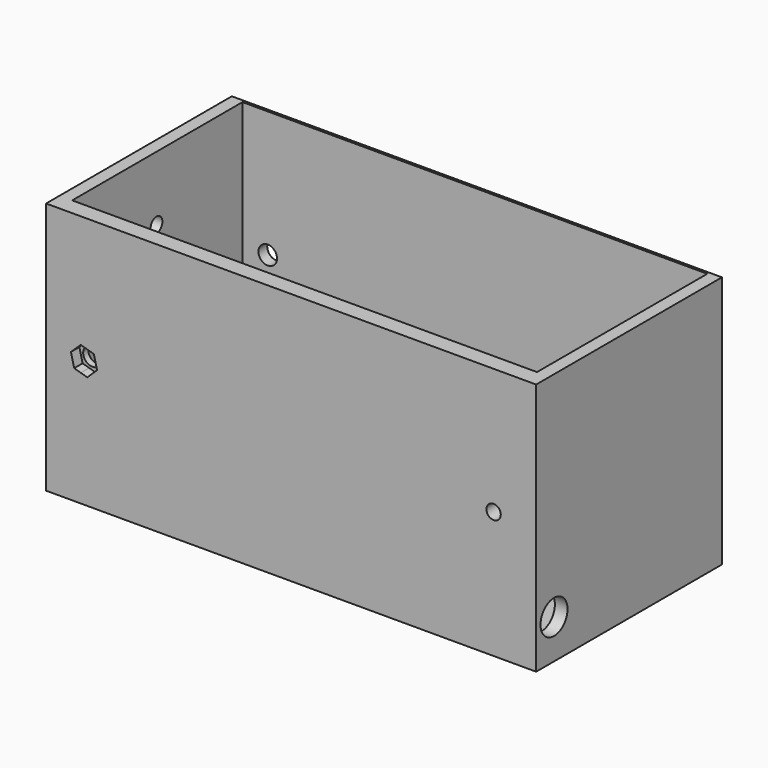
from build123d import *

# Parameters (mm, degrees)
F0_W      = 116.3
F0_H      = 70
F0_R      = 2.2
F0_R_2    = 1.7
F1_DEPTH  = 4
F3_DEPTH  = 53.1
F5_DEPTH  = 116.3
F6_R      = 1.95
F6_W      = 20
F6_H      = 14
F7_DEPTH  = 25
F8_R      = 1.75
F9_DEPTH  = 25
F10_W     = 116.3
F10_H     = 35
F11_DEPTH = 25
F13_DEPTH = 1.5
F15_DEPTH = 1
F16_DEPTH = 1
F18_DEPTH = 1.5
F20_DEPTH = 25
F21_SIZE  = 2
F23_DEPTH = 2.5
F24_R     = 1.7
F24_R_2   = 2.2
F25_DEPTH = 25
F26_R     = 4
F27_DEPTH = 8


with BuildPart() as f1:
    # F0 (on Front) → F1 (new body)
    with BuildSketch(Plane.XZ):
        with Locations((58.15, 35)):
            Rectangle(F0_W, F0_H)
        with Locations((9, 5)):
            Circle(F0_R, mode=Mode.SUBTRACT)
        with Locations((106.2, 5.1)):
            Circle(F0_R_2, mode=Mode.SUBTRACT)
        with Locations((18, 61.5)):
            Circle(F0_R_2, mode=Mode.SUBTRACT)
        with Locations((103.3, 61.5)):
            Circle(F0_R_2, mode=Mode.SUBTRACT)
    extrude(amount=-F1_DEPTH)

    # F2 (on face) → F3 (join)
    with BuildSketch(Plane(origin=(0, 4, 0), x_dir=(-1, 0, 0), z_dir=(0, 1, 0))):
        Polygon((-113.3, 35), (-116.3, 35), (-116.3, 0), (-116.3, -25), (-113.3, -25), (-113.3, 0), align=None)
        Polygon((0, 0), (0, 35), (-3, 35), (-3, 0), (-3, -25), (0, -25), align=None)
    extrude(amount=F3_DEPTH)

    # F4 (on face) → F5 (join)
    with BuildSketch(Plane(origin=(0, 0, 0), x_dir=(0, -1, 0), z_dir=(-1, 0, 0))):
        Polygon((-54.5, 35), (-57.1, 35), (-57.1, -25), (0, -25), (0, 0), (-4, 0), (-4, -22), (-54.5, -22), align=None)
    extrude(amount=-F5_DEPTH)

    # F6 (on face) → F7 (cut)
    with BuildSketch(Plane(origin=(0, 57.1, 0), x_dir=(-1, 0, 0), z_dir=(0, 1, 0))):
        with BuildLine():
            ThreePointArc((-11.8216082234, -11.75), (-13.7716082234, -9.8), (-15.7216082234, -11.75))
            ThreePointArc((-15.7216082234, -11.75), (-13.7716082234, -13.7), (-11.8216082234, -11.75))
        make_face()
        Polygon((-20.2716082234, -2.5), (-47.0716082234, -2.5), (-47.0716082234, -21), (-20.2716082234, -21), (-20.2716082234, -11.75), align=None)
        with Locations((-53.5716082234, -11.75)):
            Circle(F6_R)
        with Locations((-81.8145924807, -14)):
            Rectangle(F6_W, F6_H)
    extrude(amount=-F7_DEPTH, mode=Mode.SUBTRACT)

    # F8 (on face) → F9 (cut)
    with BuildSketch(Plane(origin=(0, 0, 0), x_dir=(0, -1, 0), z_dir=(-1, 0, 0))):
        with Locations((-29, 19.7)):
            Circle(F8_R)
    extrude(amount=-F9_DEPTH, mode=Mode.SUBTRACT)

    # F10 (on face) → F11 (cut)
    with BuildSketch(Plane(origin=(0, 4, 0), x_dir=(-1, 0, 0), z_dir=(0, 1, 0))):
        with Locations((-58.15, 52.5)):
            Rectangle(F10_W, F10_H)
    extrude(amount=-F11_DEPTH, mode=Mode.SUBTRACT)

    # F12 (on face) → F13 (cut)
    with BuildSketch(Plane(origin=(0, 57.1, 0), x_dir=(-1, 0, 0), z_dir=(0, 1, 0))):
        with BuildLine():
            Line((-67.15, 21), (-74.15, 21))
            Line((-74.15, 21), (-74.15, 19))
            Line((-74.15, 19), (-68.15, 19))
            ThreePointArc((-68.15, 19), (-67.4428932188, 18.7071067812), (-67.15, 18))
            Line((-67.15, 18), (-67.15, 16))
            Line((-67.15, 16), (-74.15, 16))
            Line((-74.15, 16), (-74.15, 14))
            Line((-74.15, 14), (-67.15, 14))
            Line((-67.15, 14), (-67.15, 12))
            ThreePointArc((-67.15, 12), (-67.4428932188, 11.2928932188), (-68.15, 11))
            Line((-68.15, 11), (-74.15, 11))
            Line((-74.15, 11), (-74.15, 9))
            Line((-74.15, 9), (-67.15, 9))
            ThreePointArc((-67.15, 9), (-65.7357864376, 9.5857864376), (-65.15, 11))
            Line((-65.15, 11), (-65.15, 19))
            ThreePointArc((-65.15, 19), (-65.7357864376, 20.4142135624), (-67.15, 21))
        make_face()
        with BuildLine():
            Line((-56.65, 21), (-61.65, 21))
            ThreePointArc((-61.65, 21), (-62.3571067812, 20.7071067812), (-62.65, 20))
            Line((-62.65, 20), (-62.65, 10))
            ThreePointArc((-62.65, 10), (-62.3571067812, 9.2928932188), (-61.65, 9))
            Line((-61.65, 9), (-56.65, 9))
            ThreePointArc((-56.65, 9), (-54.5286796564, 9.8786796564), (-53.65, 12))
            Line((-53.65, 12), (-53.65, 18))
            ThreePointArc((-53.65, 18), (-54.5286796564, 20.1213203436), (-56.65, 21))
        make_face()
        with BuildLine():
            Line((-60.649998486, 11.000001514), (-60.649998486, 18.999998486))
            Line((-60.649998486, 18.999998486), (-56.65, 18.999998486))
            ThreePointArc((-56.65, 18.999998486), (-55.9428942893, 18.7071057107), (-55.650001514, 18))
            Line((-55.650001514, 18), (-55.650001514, 12))
            ThreePointArc((-55.650001514, 12), (-55.9428942893, 11.2928942893), (-56.65, 11.000001514))
            Line((-56.65, 11.000001514), (-60.649998486, 11.000001514))
        make_face(mode=Mode.SUBTRACT)
        with BuildLine():
            Line((-44.15, 21), (-49.15, 21))
            ThreePointArc((-49.15, 21), (-50.5642135624, 20.4142135624), (-51.15, 19))
            Line((-51.15, 19), (-51.15, 9))
            Line((-51.15, 9), (-49.15, 9))
            Line((-49.15, 9), (-49.15, 18))
            ThreePointArc((-49.15, 18), (-48.8571067812, 18.7071067812), (-48.15, 19))
            Line((-48.15, 19), (-45.15, 19))
            ThreePointArc((-45.15, 19), (-44.4428932188, 18.7071067812), (-44.15, 18))
            Line((-44.15, 18), (-44.15, 15.494282797))
            ThreePointArc((-44.15, 15.494282797), (-44.4428932188, 14.7871760158), (-45.15, 14.494282797))
            Line((-45.15, 14.494282797), (-47.962191087, 14.494282797))
            Line((-47.962191087, 14.494282797), (-48.762191087, 14.494282797))
            Line((-48.762191087, 14.494282797), (-48.762191087, 12.494282797))
            Line((-48.762191087, 12.494282797), (-47.8750728071, 12.494282797))
            Line((-47.8750728071, 12.494282797), (-44.15, 12.494282797))
            ThreePointArc((-44.15, 12.494282797), (-42.7357864376, 13.0800692346), (-42.15, 14.494282797))
            Line((-42.15, 14.494282797), (-42.15, 19))
            ThreePointArc((-42.15, 19), (-42.7357864376, 20.4142135624), (-44.15, 21))
        make_face()
    extrude(amount=-F13_DEPTH, mode=Mode.SUBTRACT)

    # F14 (on face) → F15 (cut)
    with BuildSketch(Plane(origin=(0, 57.1, 0), x_dir=(-1, 0, 0), z_dir=(0, 1, 0))):
        with BuildLine():
            Line((-58.15, 21.5), (-63.4580444713, 29.462066707))
            add(Edge.make_bspline(
                [(-63.4580444713, 29.462066707), (-90.8638269236, 23.8039887729), (-74.5069134618, 6.3684356935), (-58.15, -11.0671173859), (-41.7930865382, 6.3684356935), (-25.4361730764, 23.8039887729), (-52.8419555287, 29.462066707)],
                knots=[4.9810100635, 4.9810100635, 4.9810100635, 6.8963244438, 6.8963244438, 8.8116388241, 8.8116388241, 10.7269532044, 10.7269532044, 10.7269532044], degree=2, weights=[1, 0.5754376204, 1, 0.5754376204, 1, 0.5754376204, 1]))
            Line((-52.8419555287, 29.462066707), (-58.15, 21.5))
        make_face()
        with BuildLine():
            Line((-74.15, 19), (-74.15, 21))
            Line((-74.15, 21), (-67.15, 21))
            ThreePointArc((-67.15, 21), (-65.7357864376, 20.4142135624), (-65.15, 19))
            Line((-65.15, 19), (-65.15, 11))
            ThreePointArc((-65.15, 11), (-65.7357864376, 9.5857864376), (-67.15, 9))
            Line((-67.15, 9), (-74.15, 9))
            Line((-74.15, 9), (-74.15, 11))
            Line((-74.15, 11), (-68.15, 11))
            ThreePointArc((-68.15, 11), (-67.4428932188, 11.2928932188), (-67.15, 12))
            Line((-67.15, 12), (-67.15, 14))
            Line((-67.15, 14), (-74.15, 14))
            Line((-74.15, 14), (-74.15, 16))
            Line((-74.15, 16), (-67.15, 16))
            Line((-67.15, 16), (-67.15, 18))
            ThreePointArc((-67.15, 18), (-67.4428932188, 18.7071067812), (-68.15, 19))
            Line((-68.15, 19), (-74.15, 19))
        make_face(mode=Mode.SUBTRACT)
        with BuildLine():
            ThreePointArc((-62.65, 20), (-62.3571067812, 20.7071067812), (-61.65, 21))
            Line((-61.65, 21), (-56.65, 21))
            ThreePointArc((-56.65, 21), (-54.5286796564, 20.1213203436), (-53.65, 18))
            Line((-53.65, 18), (-53.65, 12))
            ThreePointArc((-53.65, 12), (-54.5286796564, 9.8786796564), (-56.65, 9))
            Line((-56.65, 9), (-61.65, 9))
            ThreePointArc((-61.65, 9), (-62.3571067812, 9.2928932188), (-62.65, 10))
            Line((-62.65, 10), (-62.65, 20))
        make_face(mode=Mode.SUBTRACT)
        with BuildLine():
            ThreePointArc((-51.15, 19), (-50.5642135624, 20.4142135624), (-49.15, 21))
            Line((-49.15, 21), (-44.15, 21))
            ThreePointArc((-44.15, 21), (-42.7357864376, 20.4142135624), (-42.15, 19))
            Line((-42.15, 19), (-42.15, 14.494282797))
            ThreePointArc((-42.15, 14.494282797), (-42.7357864376, 13.0800692346), (-44.15, 12.494282797))
            Line((-44.15, 12.494282797), (-47.8750728071, 12.494282797))
            Line((-47.8750728071, 12.494282797), (-48.762191087, 12.494282797))
            Line((-48.762191087, 12.494282797), (-48.762191087, 14.494282797))
            Line((-48.762191087, 14.494282797), (-47.962191087, 14.494282797))
            Line((-47.962191087, 14.494282797), (-45.15, 14.494282797))
            ThreePointArc((-45.15, 14.494282797), (-44.4428932188, 14.7871760158), (-44.15, 15.494282797))
            Line((-44.15, 15.494282797), (-44.15, 18))
            ThreePointArc((-44.15, 18), (-44.4428932188, 18.7071067812), (-45.15, 19))
            Line((-45.15, 19), (-48.15, 19))
            ThreePointArc((-48.15, 19), (-48.8571067812, 18.7071067812), (-49.15, 18))
            Line((-49.15, 18), (-49.15, 9))
            Line((-49.15, 9), (-51.15, 9))
            Line((-51.15, 9), (-51.15, 19))
        make_face(mode=Mode.SUBTRACT)
    extrude(amount=-F15_DEPTH, mode=Mode.SUBTRACT)

    # F16 (cut): a face of the model
    f16_faces = [f1.faces().sort_by_distance(p)[0] for p in [
        (58.1746933701, 57.1, 15),
    ]]
    extrude(f16_faces, amount=-F16_DEPTH, mode=Mode.SUBTRACT)

    # F17 (on face) → F18 (cut)
    with BuildSketch(Plane(origin=(0, 57.1, 0), x_dir=(-1, 0, 0), z_dir=(0, 1, 0))):
        Polygon((-52.15, 30.5), (-58.15, 30.5), (-64.15, 30.5), (-63.4580444713, 29.462066707), (-58.15, 21.5), (-52.8419555287, 29.462066707), align=None)
    extrude(amount=-F18_DEPTH, mode=Mode.SUBTRACT)

    # F19 (on face) → F20 (cut)
    with BuildSketch(Plane(origin=(0, 0, -25), x_dir=(1, 0, 0), z_dir=(0, 0, -1))):
        with BuildLine():
            ThreePointArc((52.225, -18), (49.225, -21), (52.225, -24))
            Line((52.225, -24), (64.075, -24))
            ThreePointArc((64.075, -24), (67.075, -21), (64.075, -18))
            Line((64.075, -18), (52.225, -18))
        make_face()
    extrude(amount=-F20_DEPTH, mode=Mode.SUBTRACT)

    # F21
    f21_edges = [f1.edges().sort_by_distance(p)[0] for p in [
        (116.3, 57.1, 5),
        (0, 57.1, 5),
        (58.15, 57.1, 35),
    ]]
    chamfer(f21_edges, length=F21_SIZE)

    # F22 (on face) → F23 (cut)
    with BuildSketch(Plane.XZ):
        with BuildLine():
            ThreePointArc((10.9393832885, 2.980397945), (11.5758758906, 3.9023373031), (11.8, 5))
            ThreePointArc((11.8, 5), (11.7796053064, 5.3373341677), (11.7187183281, 5.6697541732))
            ThreePointArc((11.7187183281, 5.6697541732), (11.0196020537, 6.9393832898), (9.7793350426, 7.6893562225))
            ThreePointArc((9.7793350426, 7.6893562225), (8.3302458687, 7.7187183384), (7.0606167648, 7.0196021062))
            ThreePointArc((7.0606167648, 7.0196021062), (6.3106437866, 5.7793350738), (6.2812816719, 4.3302458268))
            ThreePointArc((6.2812816719, 4.3302458268), (6.9803979463, 3.0606167102), (8.2206649574, 2.3106437775))
            ThreePointArc((8.2206649574, 2.3106437775), (9.6697541672, 2.2812816704), (10.9393832885, 2.980397945))
        make_face()
        with BuildLine():
            ThreePointArc((11.7187183281, 5.6697541732), (11.7796053064, 5.3373341677), (11.8, 5))
            ThreePointArc((11.8, 5), (11.5758758906, 3.9023373031), (10.9393832885, 2.980397945))
            Line((10.9393832885, 2.980397945), (12.1054010644, 4.1001013597))
            Line((12.1054010644, 4.1001013597), (11.7187183281, 5.6697541732))
        make_face()
        with BuildLine():
            ThreePointArc((9.7793350426, 7.6893562225), (11.0196020537, 6.9393832898), (11.7187183281, 5.6697541732))
            Line((11.7187183281, 5.6697541732), (11.3320356155, 7.2394068905))
            Line((11.3320356155, 7.2394068905), (9.7793350426, 7.6893562225))
        make_face()
        with BuildLine():
            Line((9.7733654488, 1.8606944692), (10.9393832885, 2.980397945))
            ThreePointArc((10.9393832885, 2.980397945), (9.6697541672, 2.2812816704), (8.2206649574, 2.3106437775))
            Line((8.2206649574, 2.3106437775), (9.7733654488, 1.8606944692))
        make_face()
        with BuildLine():
            ThreePointArc((7.0606167648, 7.0196021062), (8.3302458687, 7.7187183384), (9.7793350426, 7.6893562225))
            Line((9.7793350426, 7.6893562225), (8.2266345512, 8.1393055308))
            Line((8.2266345512, 8.1393055308), (7.0606167648, 7.0196021062))
        make_face()
        with BuildLine():
            Line((6.6679643845, 2.7605931095), (8.2206649574, 2.3106437775))
            ThreePointArc((8.2206649574, 2.3106437775), (6.9803979463, 3.0606167102), (6.2812816719, 4.3302458268))
            Line((6.2812816719, 4.3302458268), (6.6679643845, 2.7605931095))
        make_face()
        with BuildLine():
            ThreePointArc((6.2812816719, 4.3302458268), (6.3106437866, 5.7793350738), (7.0606167648, 7.0196021062))
            Line((7.0606167648, 7.0196021062), (5.8945989356, 5.8998986403))
            Line((5.8945989356, 5.8998986403), (6.2812816719, 4.3302458268))
        make_face()
    extrude(amount=-F23_DEPTH, mode=Mode.SUBTRACT)

    # F24 (on face) → F25 (cut)
    with BuildSketch(Plane(origin=(0, 57.1, 0), x_dir=(-1, 0, 0), z_dir=(0, 1, 0))):
        with Locations((-18, 61.5)):
            Circle(F24_R)
        with Locations((-103.3, 61.5)):
            Circle(F24_R)
        with Locations((-9, 5)):
            Circle(F24_R_2)
    extrude(amount=-F25_DEPTH, mode=Mode.SUBTRACT)

    # F26 (on face) → F27 (cut)
    with BuildSketch(Plane.YZ.offset(116.3)):
        with Locations((5.3, -15.7)):
            Circle(F26_R)
    extrude(amount=-F27_DEPTH, mode=Mode.SUBTRACT)


solid = f1.part
